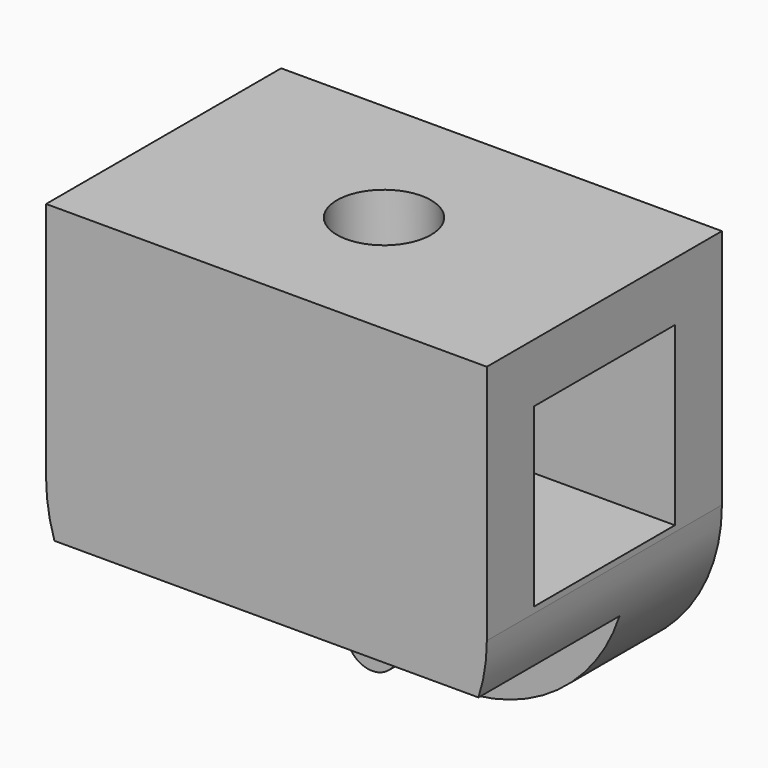
from build123d import *

# Parameters (mm, degrees)
F0_W     = 19.05
F0_H     = 12.7
F1_DEPTH = 6.35
F2_T     = -2.54
F3_R     = 2.032
F4_DEPTH = 2.54
F5_W     = 19.05
F5_H     = 5.08
F6_DEPTH = 5.08
F7_R     = 1.1176
F8_DEPTH = 1.905
F9_R     = 7.358523


with BuildPart() as f1:
    # F0 (on Front) → F1 (new body, symmetric)
    with BuildSketch(Plane.XZ):
        Rectangle(F0_W, F0_H)
    extrude(amount=F1_DEPTH, both=True)

    # F2
    f2_openings = [f1.faces().sort_by_distance(p)[0] for p in [
        (9.525, 0, 0),
        (-9.525, 0, 0),
    ]]
    offset(amount=F2_T, openings=f2_openings)

    # F3 (on face) → F4 (cut)
    with BuildSketch(Plane.XY.offset(6.35)):
        Circle(F3_R)
    extrude(amount=-F4_DEPTH, mode=Mode.SUBTRACT)

    # F5 (on face) → F6 (join)
    with BuildSketch(Plane(origin=(0, 0, -6.35), x_dir=(1, 0, 0), z_dir=(0, 0, -1))):
        with Locations((0, -3.81)):
            Rectangle(F5_W, F5_H)
    extrude(amount=F6_DEPTH)

    # F7 (on face) → F8 (join)
    with BuildSketch(Plane.XZ.offset(-1.27)):
        with Locations((0, -9.525)):
            Circle(F7_R)
    extrude(amount=F8_DEPTH)

    # F9
    f9_edges = [f1.edges().sort_by_distance(p)[0] for p in [
        (9.525, 3.81, -11.43),
        (-9.525, 3.81, -11.43),
    ]]
    fillet(f9_edges, radius=F9_R)


solid = f1.part
